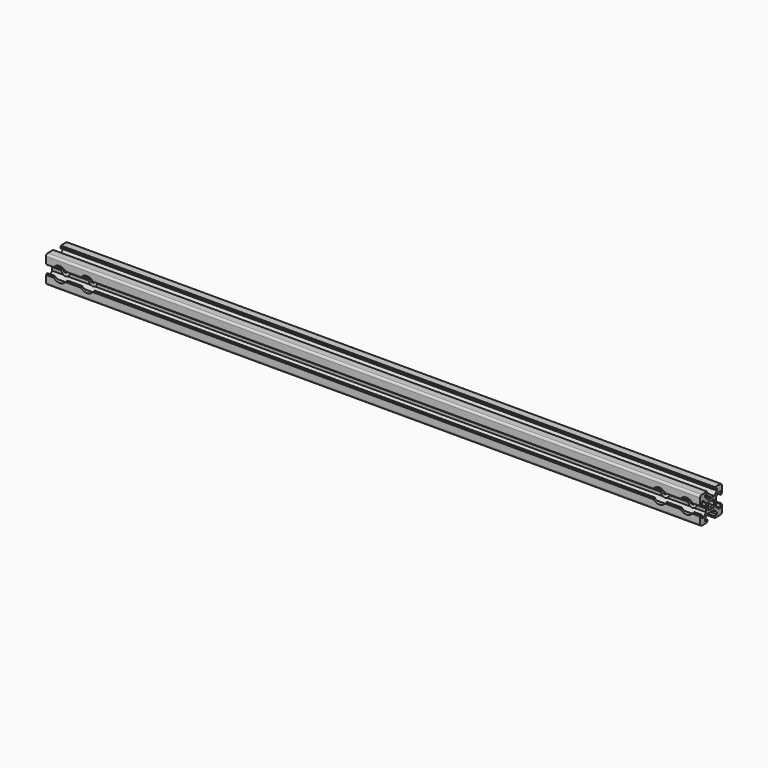
from build123d import *

# Parameters (mm, degrees)
PAD_DEPTH       = 480
SKETCH001_R     = 3.25
POCKET_DEPTH    = 21
SKETCH002_R     = 5.5
POCKET001_DEPTH = 2


with BuildPart() as part:
    # Sketch → Pad (new body)
    with BuildSketch(Plane.YZ):
        with BuildLine():
            Line((0, 4.1), (0.65, 4.5))
            Line((0.65, 4.5), (3, 4.5))
            Line((3, 4.5), (5.5, 7))
            Line((5.5, 7), (5.5, 8.5))
            Line((5.5, 8.5), (3, 8.5))
            Line((3, 8.5), (3, 9.5))
            Line((3, 9.5), (3.5, 9.5))
            Line((3.5, 9.5), (3.5, 10))
            Line((3.5, 10), (8.5, 10))
            ThreePointArc((10, 8.5), (9.56066, 9.56066), (8.5, 10))
            Line((10, 8.5), (10, 3.5))
            Line((10, 3.5), (9.5, 3.5))
            Line((9.5, 3.5), (9.5, 3))
            Line((9.5, 3), (8.5, 3))
            Line((8.5, 3), (8.5, 5.5))
            Line((8.5, 5.5), (7, 5.5))
            Line((7, 5.5), (4.5, 3))
            Line((4.5, 3), (4.5, 0.65))
            Line((4.5, 0.65), (4.1, 0))
            Line((4.5, -0.65), (4.1, 0))
            Line((4.5, -3), (4.5, -0.65))
            Line((7, -5.5), (4.5, -3))
            Line((8.5, -5.5), (7, -5.5))
            Line((8.5, -3), (8.5, -5.5))
            Line((9.5, -3), (8.5, -3))
            Line((9.5, -3.5), (9.5, -3))
            Line((10, -3.5), (9.5, -3.5))
            Line((10, -8.5), (10, -3.5))
            ThreePointArc((8.5, -10), (9.56066, -9.56066), (10, -8.5))
            Line((3.5, -10), (8.5, -10))
            Line((3.5, -9.5), (3.5, -10))
            Line((3, -9.5), (3.5, -9.5))
            Line((3, -8.5), (3, -9.5))
            Line((5.5, -8.5), (3, -8.5))
            Line((5.5, -7), (5.5, -8.5))
            Line((3, -4.5), (5.5, -7))
            Line((0.65, -4.5), (3, -4.5))
            Line((0, -4.1), (0.65, -4.5))
            Line((0, -4.1), (-0.65, -4.5))
            Line((-0.65, -4.5), (-3, -4.5))
            Line((-3, -4.5), (-5.5, -7))
            Line((-5.5, -7), (-5.5, -8.5))
            Line((-5.5, -8.5), (-3, -8.5))
            Line((-3, -8.5), (-3, -9.5))
            Line((-3, -9.5), (-3.5, -9.5))
            Line((-3.5, -9.5), (-3.5, -10))
            Line((-3.5, -10), (-8.5, -10))
            ThreePointArc((-10, -8.5), (-9.56066, -9.56066), (-8.5, -10))
            Line((-10, -8.5), (-10, -3.5))
            Line((-10, -3.5), (-9.5, -3.5))
            Line((-9.5, -3.5), (-9.5, -3))
            Line((-9.5, -3), (-8.5, -3))
            Line((-8.5, -3), (-8.5, -5.5))
            Line((-8.5, -5.5), (-7, -5.5))
            Line((-7, -5.5), (-4.5, -3))
            Line((-4.5, -3), (-4.5, -0.65))
            Line((-4.5, -0.65), (-4.1, 0))
            Line((-4.5, 0.65), (-4.1, 0))
            Line((-4.5, 3), (-4.5, 0.65))
            Line((-7, 5.5), (-4.5, 3))
            Line((-8.5, 5.5), (-7, 5.5))
            Line((-8.5, 3), (-8.5, 5.5))
            Line((-9.5, 3), (-8.5, 3))
            Line((-9.5, 3.5), (-9.5, 3))
            Line((-10, 3.5), (-9.5, 3.5))
            Line((-10, 8.5), (-10, 3.5))
            ThreePointArc((-8.5, 10), (-9.56066, 9.56066), (-10, 8.5))
            Line((-3.5, 10), (-8.5, 10))
            Line((-3.5, 9.5), (-3.5, 10))
            Line((-3, 9.5), (-3.5, 9.5))
            Line((-3, 8.5), (-3, 9.5))
            Line((-5.5, 8.5), (-3, 8.5))
            Line((-5.5, 7), (-5.5, 8.5))
            Line((-3, 4.5), (-5.5, 7))
            Line((-0.65, 4.5), (-3, 4.5))
            Line((0, 4.1), (-0.65, 4.5))
        make_face()
        with BuildLine():
            Line((1.340499, 2.401159), (1.923239, 2.983899))
            Line((1.923239, 2.983899), (2.983899, 1.923239))
            Line((2.983899, 1.923239), (2.401159, 1.340499))
            ThreePointArc((2.75, 0), (2.661361, 0.692573), (2.401159, 1.340499))
            ThreePointArc((2.401164, -1.34049), (2.661362, -0.692568), (2.75, 0))
            Line((2.983904, -1.92323), (2.401164, -1.34049))
            Line((1.923247, -2.983894), (2.983904, -1.92323))
            Line((1.340507, -2.401154), (1.923247, -2.983894))
            ThreePointArc((0, -2.75), (0.692577, -2.66136), (1.340507, -2.401154))
            ThreePointArc((-1.340507, -2.401154), (-0.692577, -2.66136), (0, -2.75))
            Line((-1.340507, -2.401154), (-1.923247, -2.983894))
            Line((-1.923247, -2.983894), (-2.983904, -1.92323))
            Line((-2.983904, -1.92323), (-2.401164, -1.34049))
            ThreePointArc((-2.75, 0), (-2.661362, -0.692568), (-2.401164, -1.34049))
            ThreePointArc((-2.401159, 1.340499), (-2.661361, 0.692572), (-2.75, 0))
            Line((-2.983899, 1.923239), (-2.401159, 1.340499))
            Line((-1.923239, 2.983899), (-2.983899, 1.923239))
            Line((-1.340499, 2.401159), (-1.923239, 2.983899))
            ThreePointArc((0, 2.75), (-0.692573, 2.661361), (-1.340499, 2.401159))
            ThreePointArc((1.340499, 2.401159), (0.692573, 2.661361), (0, 2.75))
        make_face(mode=Mode.SUBTRACT)
    extrude(amount=PAD_DEPTH)

    # Sketch001 → Pocket (cut)
    with BuildSketch(Plane.XZ.offset(10)):
        with Locations((10, 0)):
            Circle(SKETCH001_R)
        with Locations((470, 0)):
            Circle(SKETCH001_R)
        with Locations((30, 0)):
            Circle(SKETCH001_R)
        with Locations((450, 0)):
            Circle(SKETCH001_R)
    extrude(amount=-POCKET_DEPTH, mode=Mode.SUBTRACT)

    # Sketch002 → Pocket001 (cut)
    with BuildSketch(Plane.XZ.offset(10)):
        with Locations((10, 0)):
            Circle(SKETCH002_R)
        with Locations((470, 0)):
            Circle(SKETCH002_R)
        with Locations((30, 0)):
            Circle(SKETCH002_R)
        with Locations((450, 0)):
            Circle(SKETCH002_R)
    extrude(amount=-POCKET001_DEPTH, mode=Mode.SUBTRACT)


solid = part.part
